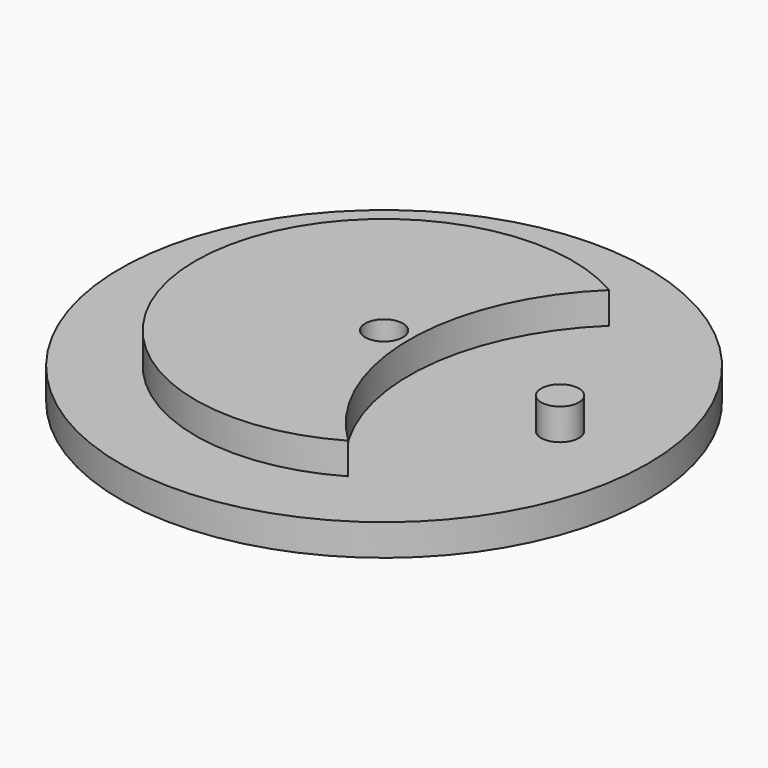
from build123d import *

# Parameters (mm, degrees)
SKETCH_R     = 42
PAD_DEPTH    = 5
SKETCH001_R  = 3
PAD001_DEPTH = 5
PAD002_DEPTH = 5
SKETCH003_R  = 3
POCKET_DEPTH = 10


with BuildPart() as part:
    # Sketch → Pad (new body)
    with BuildSketch(Plane.XY):
        Circle(SKETCH_R)
    extrude(amount=PAD_DEPTH)

    # Sketch001 → Pad001 (new body)
    with BuildSketch(Plane.XY.offset(5)):
        with Locations((28, 0)):
            Circle(SKETCH001_R)
    extrude(amount=PAD001_DEPTH)

    # Sketch002 → Pad002 (new body)
    with BuildSketch(Plane.XY.offset(5)):
        with BuildLine():
            ThreePointArc((15.05, 25.95183), (4, 0), (15.05, -25.95183))
            ThreePointArc((15.05, 25.95183), (-30, 0), (15.05, -25.95183))
        make_face()
    extrude(amount=PAD002_DEPTH)

    # Sketch003 → Pocket (cut)
    with BuildSketch(Plane(origin=(0, 0, 0), x_dir=(1, 0, 0), z_dir=(0, 0, -1))):
        Circle(SKETCH003_R)
    extrude(amount=-POCKET_DEPTH, mode=Mode.SUBTRACT)


solid = part.part
